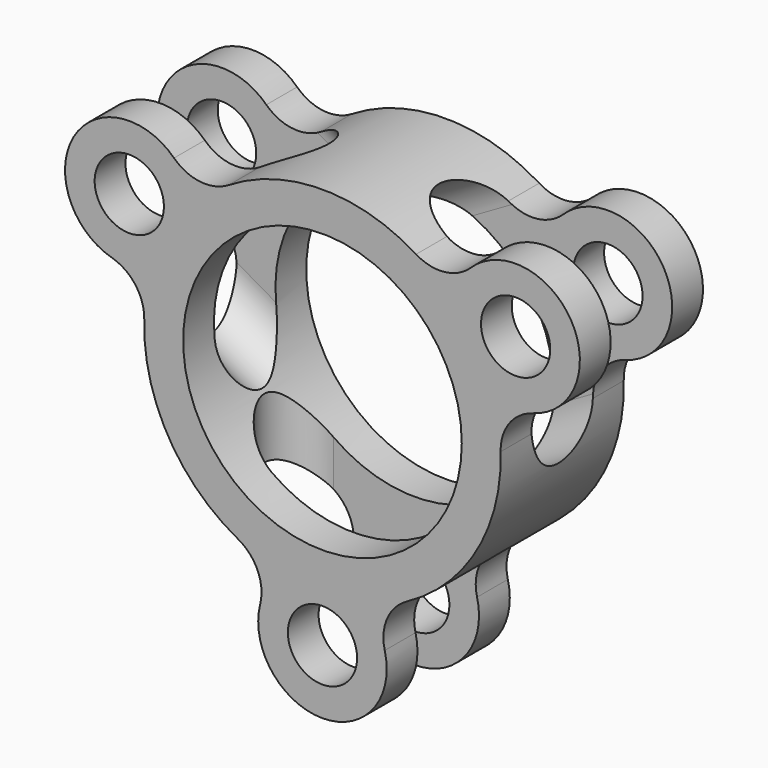
from build123d import *

# Parameters (mm, degrees)
SKETCH_R           = 4.5
SKETCH_R_2         = 18.110743
PAD_DEPTH          = 20
POCKET_DEPTH       = 60
POLARPATTERN_COUNT = 3


with BuildPart() as part:
    # Sketch → Pad (new body)
    with BuildSketch(Plane.XZ):
        with BuildLine():
            ThreePointArc((12.178111, 19.713984), (0, 23.172129), (-12.178111, 19.713984))
            ThreePointArc((-19.292673, 20.489517), (-15.868632, 18.879438), (-12.178111, 19.713984))
            ThreePointArc((-19.292673, 20.489517), (-32.342002, 18.672663), (-27.390779, 6.463187))
            ThreePointArc((-23.161867, 0.689562), (-24.284389, 4.302919), (-27.390779, 6.463187))
            ThreePointArc((-23.161867, 0.689562), (-20.067652, -11.586065), (-10.983754, -20.403546))
            ThreePointArc((-8.098105, -26.952707), (-8.415755, -23.18236), (-10.983754, -20.403546))
            ThreePointArc((-8.098105, -26.952707), (3e-06, -37.345325), (8.098106, -26.952703))
            ThreePointArc((10.983755, -20.403546), (8.415757, -23.182358), (8.098106, -26.952703))
            ThreePointArc((10.983755, -20.403546), (20.067652, -11.586065), (23.161867, 0.689562))
            ThreePointArc((27.390779, 6.463187), (24.284389, 4.302919), (23.161867, 0.689562))
            ThreePointArc((27.390779, 6.463187), (32.342001, 18.672663), (19.292673, 20.489517))
            ThreePointArc((12.178111, 19.713984), (15.868632, 18.879438), (19.292673, 20.489517))
        make_face()
        with Locations((-25.109476, 14.496963)):
            Circle(SKETCH_R, mode=Mode.SUBTRACT)
        with Locations((25.109476, 14.496963)):
            Circle(SKETCH_R, mode=Mode.SUBTRACT)
        with Locations((1e-06, -28.993925)):
            Circle(SKETCH_R, mode=Mode.SUBTRACT)
        Circle(SKETCH_R_2, mode=Mode.SUBTRACT)
    extrude(amount=PAD_DEPTH)

    # Sketch001 → Pocket (cut)
    with BuildSketch(Plane.XY):
        with BuildLine():
            ThreePointArc((-10.534883, -5), (-15.534883, -10), (-10.534883, -15))
            Line((-10.534883, -15), (10.534883, -15))
            ThreePointArc((10.534883, -15), (15.534883, -10), (10.534883, -5))
            Line((10.534883, -5), (-10.534883, -5))
        make_face()
    pocket = extrude(amount=-POCKET_DEPTH, mode=Mode.SUBTRACT)

    # PolarPattern: Pocket ×3 about axis
    polarpattern_axis = Axis((0, 0, 0), (0, 1, 0))
    for i in range(1, POLARPATTERN_COUNT):
        add(pocket.rotate(polarpattern_axis, i * 360 / POLARPATTERN_COUNT), mode=Mode.SUBTRACT)


solid = part.part
